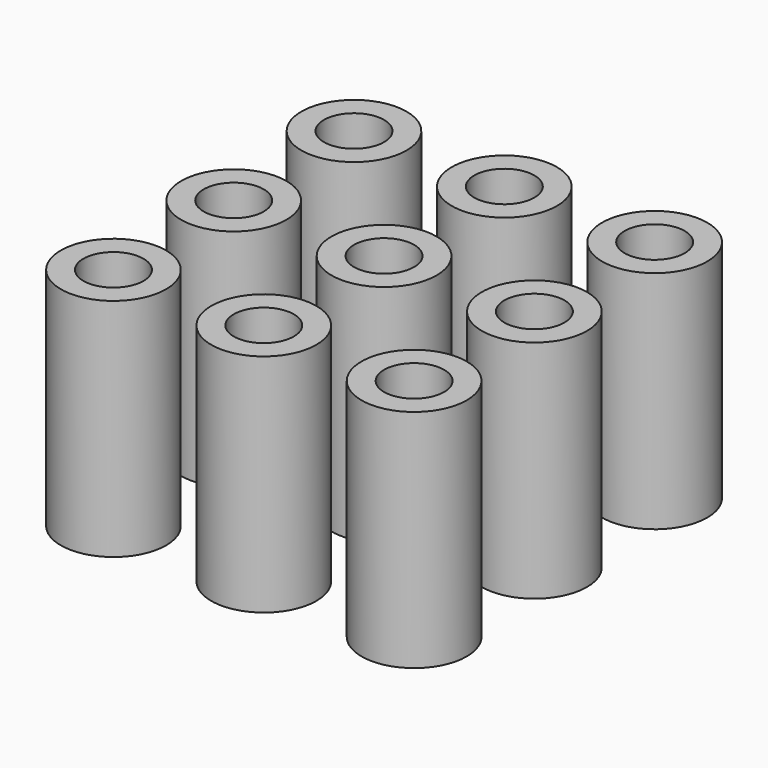
from build123d import *

# Parameters (mm, degrees)
F0_R     = 2.8
F0_R_2   = 1.6
F1_DEPTH = 12


with BuildPart() as f1:
    # F0 (on Top) → F1 (new body)
    with BuildSketch(Plane.XY):
        with Locations((0, 16)):
            Circle(F0_R)
        with Locations((0, 16)):
            Circle(F0_R_2, mode=Mode.SUBTRACT)
        with Locations((8, 16)):
            Circle(F0_R)
        with Locations((8, 16)):
            Circle(F0_R_2, mode=Mode.SUBTRACT)
        with Locations((16, 16)):
            Circle(F0_R)
        with Locations((16, 16)):
            Circle(F0_R_2, mode=Mode.SUBTRACT)
        with Locations((16, 8)):
            Circle(F0_R)
        with Locations((16, 8)):
            Circle(F0_R_2, mode=Mode.SUBTRACT)
        with Locations((16, 0)):
            Circle(F0_R)
        with Locations((16, 0)):
            Circle(F0_R_2, mode=Mode.SUBTRACT)
        with Locations((8, 0)):
            Circle(F0_R)
        with Locations((8, 0)):
            Circle(F0_R_2, mode=Mode.SUBTRACT)
        with Locations((8, 8)):
            Circle(F0_R)
        with Locations((8, 8)):
            Circle(F0_R_2, mode=Mode.SUBTRACT)
        with Locations((0, 8)):
            Circle(F0_R)
        with Locations((0, 8)):
            Circle(F0_R_2, mode=Mode.SUBTRACT)
        Circle(F0_R)
        Circle(F0_R_2, mode=Mode.SUBTRACT)
    extrude(amount=F1_DEPTH)


solid = f1.part
